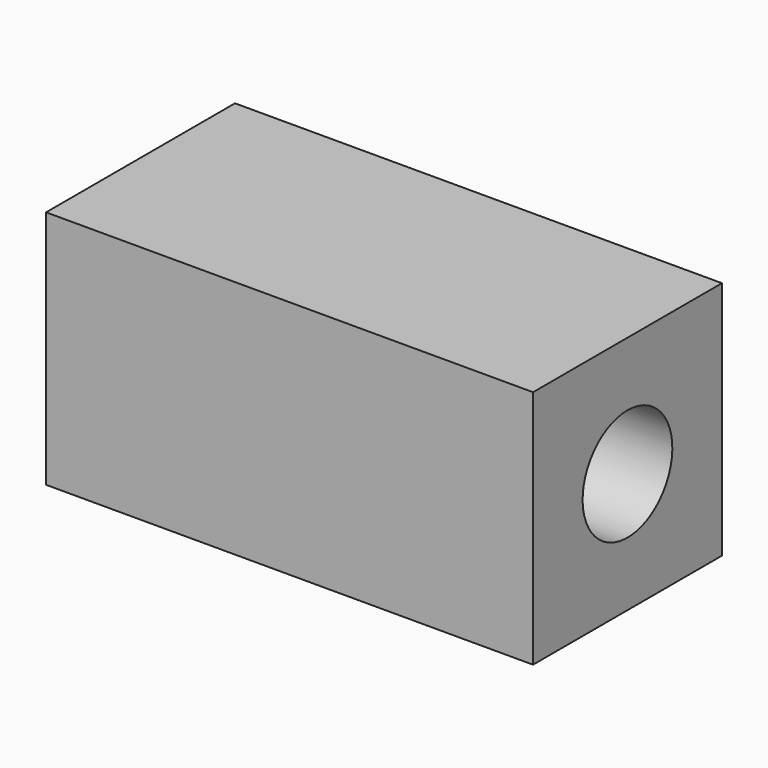
from build123d import *

# Parameters (mm, degrees)
F1_DEPTH = 25.4


with BuildPart() as f1:
    # F0 (on Front) → F1 (new body, symmetric)
    with BuildSketch(Plane.XZ):
        Polygon((-57.347276, 0), (47.427724, 0), (47.427724, 12.065), (-35.122276, 12.065), (-57.347276, 18.796292), align=None)
        Polygon((47.427724, -12.065), (47.427724, 0), (-57.347276, 0), (-57.347276, -18.796292), (-35.122276, -12.065), align=None)
        Polygon((-35.122276, 12.065), (47.427724, 12.065), (47.427724, 25.810359), (-57.347276, 25.810359), (-57.347276, 18.796292), align=None)
        Polygon((47.427724, -25.810359), (47.427724, -12.065), (-35.122276, -12.065), (-57.347276, -18.796292), (-57.347276, -25.810359), align=None)
    extrude(amount=F1_DEPTH, both=True)

    # F0 (on Front) → F2 (revolve, cut)
    with BuildSketch(Plane.XZ):
        Polygon((-57.347276, 0), (47.427724, 0), (47.427724, 12.065), (-35.122276, 12.065), (-57.347276, 18.796292), align=None)
    revolve(axis=Axis((-5.605094, 0, 0), (1, 0, 0)), mode=Mode.SUBTRACT)


solid = f1.part
